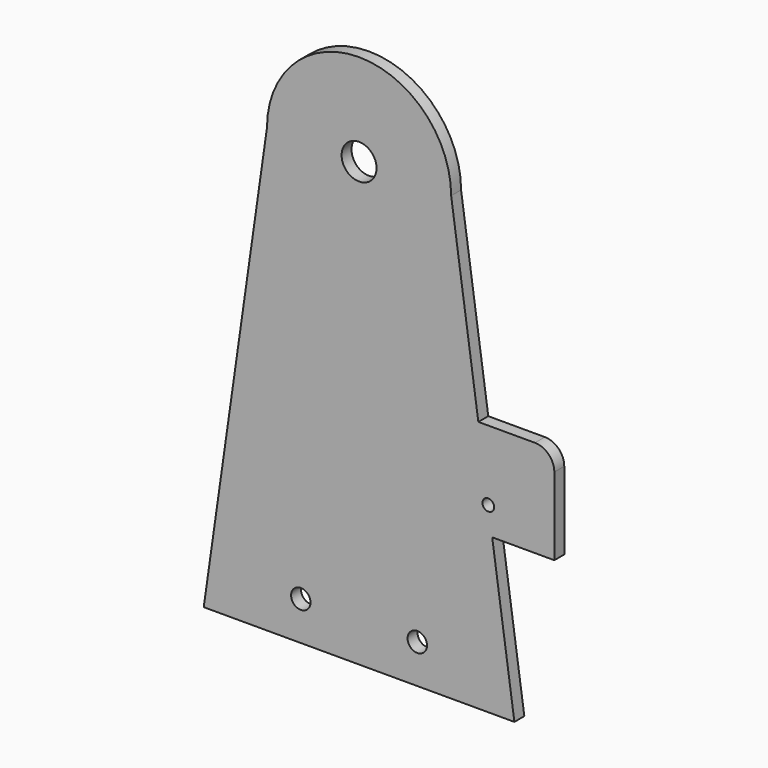
from build123d import *

# Parameters (mm, degrees)
F0_R     = 2.5
F0_R_2   = 1.5
F0_R_3   = 4.5
F1_DEPTH = 3.2
F2_R     = 5


with BuildPart() as f1:
    # F0 (on Front) → F1 (new body)
    with BuildSketch(Plane.XZ):
        with BuildLine():
            Line((-23.714286, 44), (-40, -70))
            Line((-40, -70), (40, -70))
            Line((40, -70), (34.285714, -30))
            Line((34.285714, -30), (50.285714, -30))
            Line((50.285714, -30), (50.285714, -5))
            Line((50.285714, -5), (30.714286, -5))
            Line((30.714286, -5), (23.714286, 44))
            ThreePointArc((23.714286, 44), (0, 67.714286), (-23.714286, 44))
        make_face()
        with Locations((-15, -60)):
            Circle(F0_R, mode=Mode.SUBTRACT)
        with Locations((15, -60)):
            Circle(F0_R, mode=Mode.SUBTRACT)
        with Locations((33.285714, -23)):
            Circle(F0_R_2, mode=Mode.SUBTRACT)
        with Locations((0, 44)):
            Circle(F0_R_3, mode=Mode.SUBTRACT)
    extrude(amount=F1_DEPTH)

    # F2
    f2_edges = [f1.edges().sort_by_distance(p)[0] for p in [
        (50.285714, -1.6, -5),
    ]]
    fillet(f2_edges, radius=F2_R)


solid = f1.part
